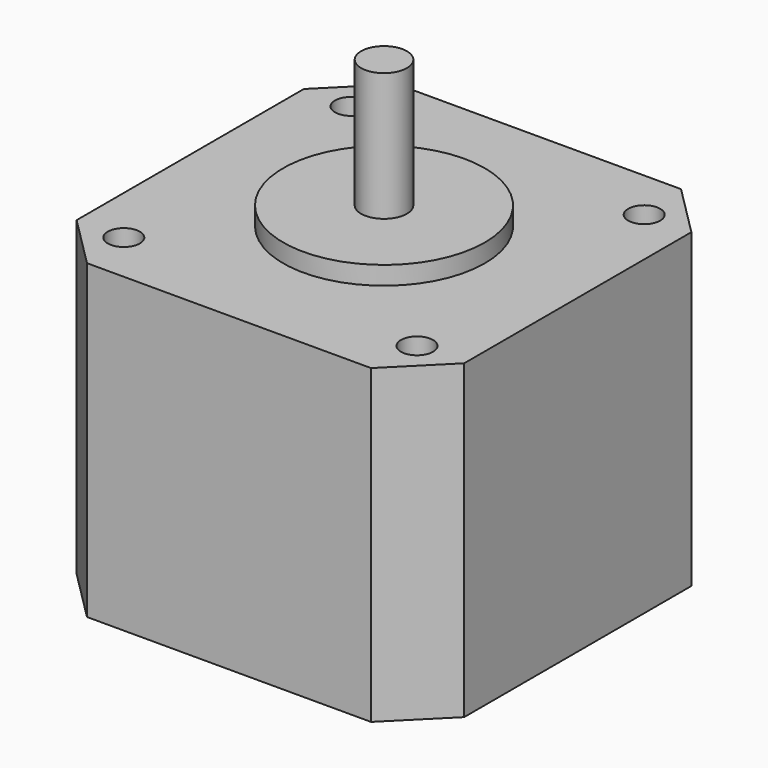
from build123d import *

# Parameters (mm, degrees)
F0_W     = 42.3
F0_H     = 42.3
F1_DEPTH = 34
F2_R     = 11
F3_DEPTH = 2
F4_R     = 2.5
F5_DEPTH = 14
F6_SIZE  = 5.65
F7_R     = 1.75
F8_DEPTH = 4.5


with BuildPart() as f1:
    # F0 (on Top) → F1 (new body)
    with BuildSketch(Plane.XY):
        Rectangle(F0_W, F0_H)
    extrude(amount=F1_DEPTH)

    # F2 (on face) → F3 (join)
    with BuildSketch(Plane.XY.offset(34)):
        Circle(F2_R)
    extrude(amount=F3_DEPTH)

    # F4 (on face) → F5 (join)
    with BuildSketch(Plane.XY.offset(36)):
        Circle(F4_R)
    extrude(amount=F5_DEPTH)

    # F6
    f6_edges = [f1.edges().sort_by_distance(p)[0] for p in [
        (21.15, 21.15, 17),
        (-21.15, 21.15, 17),
        (21.15, -21.15, 17),
        (-21.15, -21.15, 17),
    ]]
    chamfer(f6_edges, length=F6_SIZE)

    # F7 (on face) → F8 (cut)
    with BuildSketch(Plane.XY.offset(34)):
        with Locations((16, 15.5)):
            Circle(F7_R)
        with Locations((-16, 15.5)):
            Circle(F7_R)
        with Locations((16, -15.5)):
            Circle(F7_R)
        with Locations((-16, -15.5)):
            Circle(F7_R)
    extrude(amount=-F8_DEPTH, mode=Mode.SUBTRACT)


solid = f1.part
